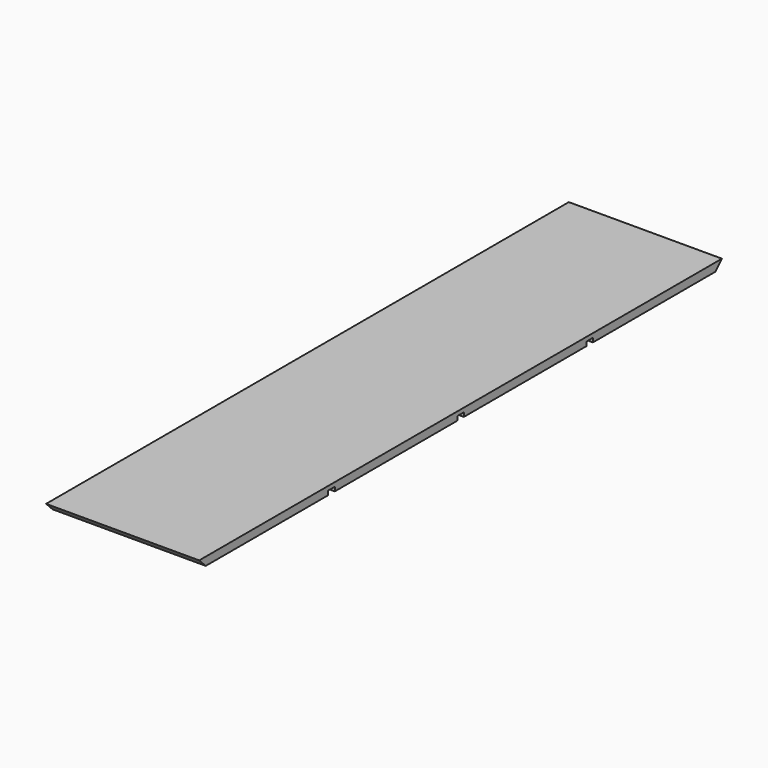
from build123d import *

# Parameters (mm, degrees)
F1_DEPTH = 355.6


with BuildPart() as f1:
    # F0 (on Right) → F1 (new body)
    with BuildSketch(Plane.YZ):
        Polygon((739.775, -9.525), (758.825, 9.525), (-758.825, 9.525), (-739.775, -9.525), (-384.175, -9.525), (-384.175, 0), (-365.125, 0), (-365.125, -9.525), (-9.525, -9.525), (-9.525, 0), (0, 0), (9.525, 0), (9.525, -9.525), (365.125, -9.525), (365.125, 0), (384.175, 0), (384.175, -9.525), align=None)
    extrude(amount=F1_DEPTH)


solid = f1.part
